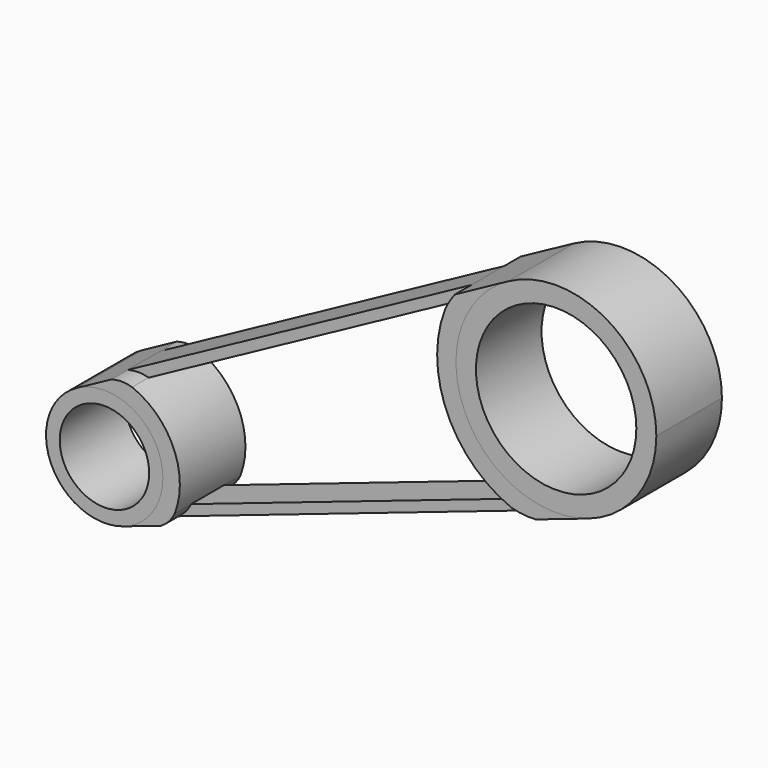
from build123d import *

# Parameters (mm, degrees)
F2_R     = 24.841403
F2_R_2   = 13.853338
F3_DEPTH = 12.7
F4_DEPTH = 12.7
F5_DEPTH = 6.35


with BuildPart() as f3:
    # F2 (on Front) → F3 (new body, symmetric)
    with BuildSketch(Plane.XZ):
        with BuildLine():
            ThreePointArc((44.789403, 65.03289), (29.623329, 91.703627), (-1.051969, 92.307081))
            ThreePointArc((-1.051969, 92.307081), (-14.675364, 52.589408), (23.745549, 35.65058))
            ThreePointArc((23.745549, 35.65058), (38.985782, 46.962445), (44.789403, 65.03289))
        make_face()
        with Locations((13.75507, 65.03289)):
            Circle(F2_R, mode=Mode.SUBTRACT)
        with BuildLine():
            ThreePointArc((-120.348502, -13.343815), (-111.462148, -6.748034), (-108.078142, 3.788575))
            ThreePointArc((-108.078142, 3.788575), (-116.921256, 19.339886), (-134.807567, 19.691751))
            ThreePointArc((-134.807567, 19.691751), (-142.751167, -3.467036), (-120.348502, -13.343815))
        make_face()
        with Locations((-126.173802, 3.788575)):
            Circle(F2_R_2, mode=Mode.SUBTRACT)
    extrude(amount=F3_DEPTH, both=True)


with BuildPart() as f4:
    # F2 (on Front) → F4 (new body, symmetric)
    with BuildSketch(Plane.XZ):
        with BuildLine():
            Line((-1.051969, 92.307081), (-17.604658, 83.320698))
            ThreePointArc((-17.604658, 83.320698), (-19.321753, 80.826497), (-20.700884, 78.130675))
            ThreePointArc((-20.700884, 78.130675), (-20.013541, 50.252985), (0, 30.83402))
            ThreePointArc((0, 30.83402), (3.685515, 30.16899), (7.429967, 30.103008))
            Line((7.429967, 30.103008), (23.745549, 35.65058))
            ThreePointArc((23.745549, 35.65058), (-14.675364, 52.589408), (-1.051969, 92.307081))
        make_face()
        with BuildLine():
            ThreePointArc((-134.807567, 19.691751), (-116.921256, 19.339886), (-108.078142, 3.788575))
            ThreePointArc((-108.078142, 3.788575), (-111.462148, -6.748034), (-120.348502, -13.343815))
            Line((-120.348502, -13.343815), (-108.586277, -9.344462))
            ThreePointArc((-108.586277, -9.344462), (-106.147826, -7.308885), (-104.392854, -4.661303))
            ThreePointArc((-104.392854, -4.661303), (-104.771432, 13.156002), (-117.603765, 25.522525))
            ThreePointArc((-117.603765, 25.522525), (-120.835597, 26.00811), (-124.067429, 25.522525))
            Line((-124.067429, 25.522525), (-134.807567, 19.691751))
        make_face()
    extrude(amount=F4_DEPTH, both=True)


with BuildPart() as f5:
    # F2 (on Front) → F5 (new body, symmetric)
    with BuildSketch(Plane.XZ):
        with BuildLine():
            ThreePointArc((-104.392854, -4.661303), (-106.147826, -7.308885), (-108.586277, -9.344462))
            Line((-108.586277, -9.344462), (7.429967, 30.103008))
            ThreePointArc((7.429967, 30.103008), (3.685515, 30.16899), (0, 30.83402))
            Line((0, 30.83402), (-104.392854, -4.661303))
        make_face()
        with BuildLine():
            Line((-17.604658, 83.320698), (-124.067429, 25.522525))
            ThreePointArc((-124.067429, 25.522525), (-120.835597, 26.00811), (-117.603765, 25.522525))
            Line((-117.603765, 25.522525), (-20.700884, 78.130675))
            ThreePointArc((-20.700884, 78.130675), (-19.321753, 80.826497), (-17.604658, 83.320698))
        make_face()
    extrude(amount=F5_DEPTH, both=True)


solid = Compound([f3.part, f4.part, f5.part])
